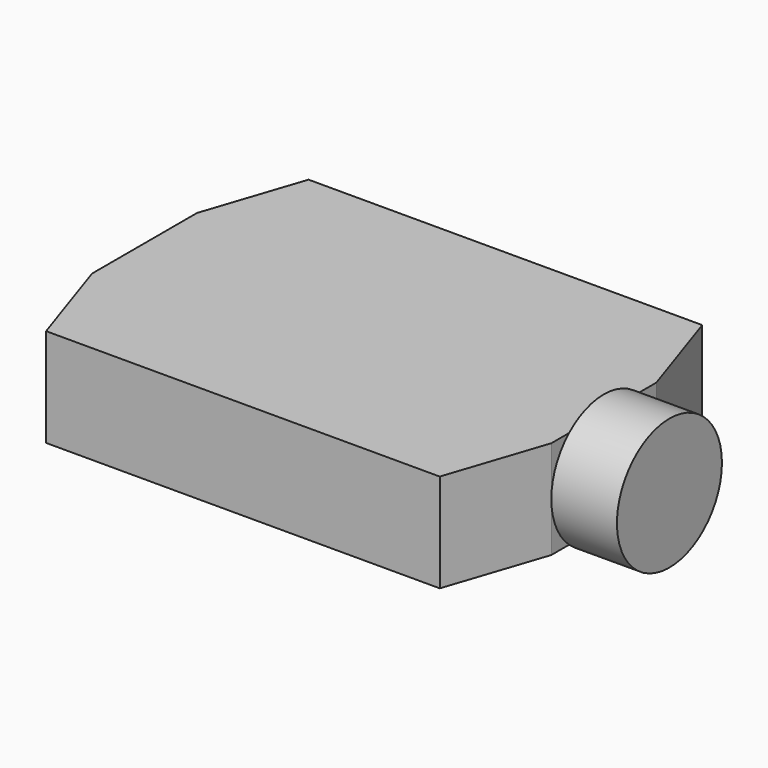
from build123d import *

# Parameters (mm, degrees)
F0_R     = 10
F1_DEPTH = 10
F3_DEPTH = 7.5


with BuildPart() as f1:
    # F0 (on Right) → F1 (new body)
    with BuildSketch(Plane.YZ):
        Circle(F0_R)
    extrude(amount=F1_DEPTH)

    # F2 (on Top) → F3 (join, symmetric)
    with BuildSketch(Plane.XY):
        Polygon((-5, 25), (-65, 25), (-70, 10), (-70, -10), (-65, -25), (-5, -25), (0, -10), (0, 10), align=None)
    extrude(amount=F3_DEPTH, both=True)


solid = f1.part
